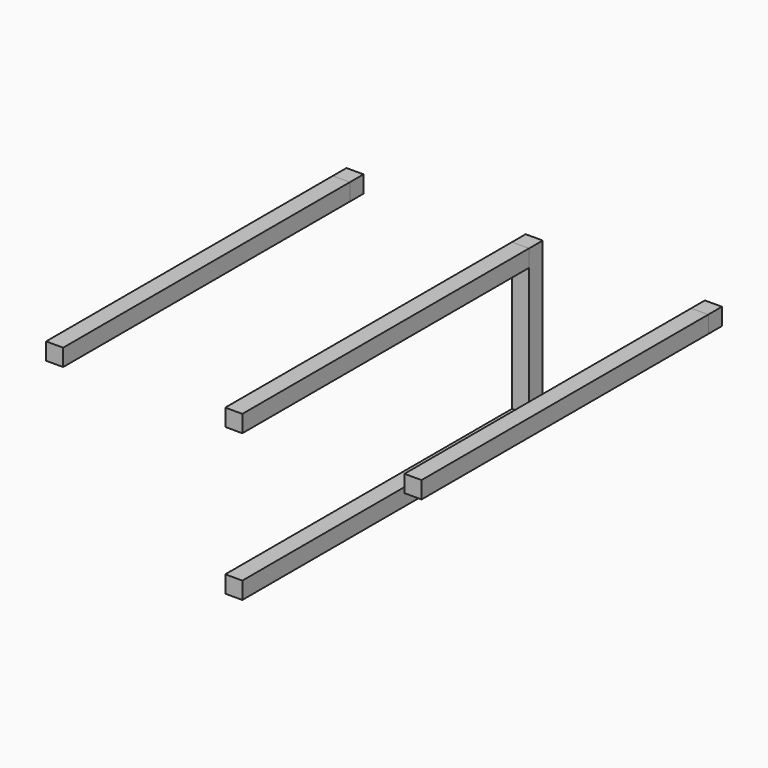
from build123d import *

# Parameters (mm, degrees)
F0_W     = 100
F0_H     = 100
F1_DEPTH = 2200
F0_H_2   = 760
F2_DEPTH = 100


with BuildPart() as f1:
    # F0 (on Front) → F1 (new body)
    with BuildSketch(Plane.XZ):
        with Locations((0, 430)):
            Rectangle(F0_W, F0_H)
        with Locations((1050, 430)):
            Rectangle(F0_W, F0_H)
        with Locations((0, -430)):
            Rectangle(F0_W, F0_H)
        with Locations((-1050, 430)):
            Rectangle(F0_W, F0_H)
    extrude(amount=F1_DEPTH)


with BuildPart() as f2:
    # F0 (on Front) → F2 (new body)
    with BuildSketch(Plane.XZ):
        with Locations((0, -430)):
            Rectangle(F0_W, F0_H)
        with Locations((-1050, 430)):
            Rectangle(F0_W, F0_H)
        with Locations((0, 430)):
            Rectangle(F0_W, F0_H)
        with Locations((1050, 430)):
            Rectangle(F0_W, F0_H)
        Rectangle(F0_W, F0_H_2)
    extrude(amount=F2_DEPTH)


solid = Compound([f1.part, f2.part])
